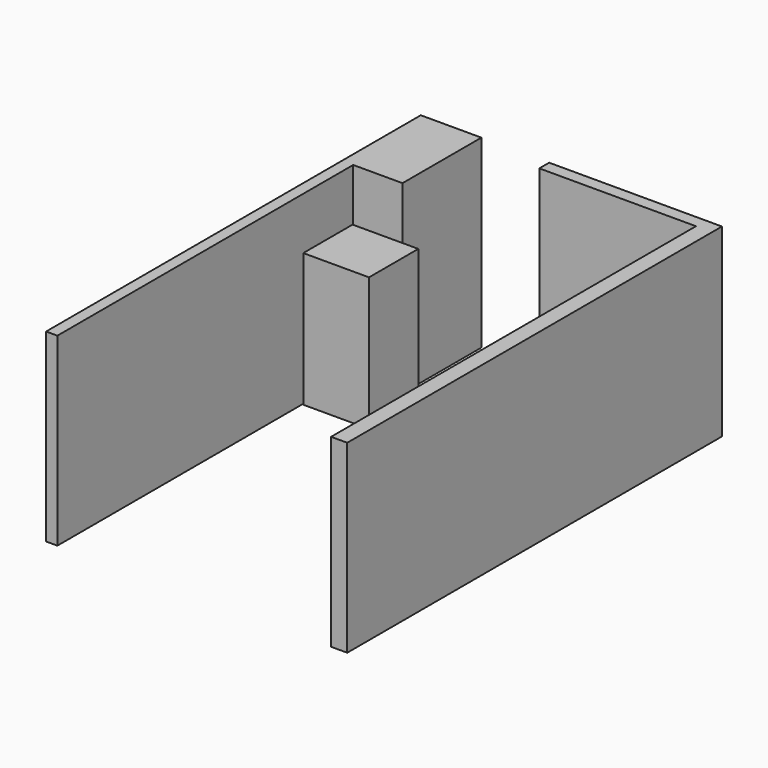
from build123d import *

# Parameters (mm, degrees)
F1_DEPTH  = 2286
F2_W      = 812.8
F2_H      = 762
F3_DEPTH  = 1651
F4_W      = 609.6
F4_H      = 1066.8
F4_W_2    = 558.8
F4_H_2    = 660.4
F5_DEPTH  = 939.8
F6_DEPTH  = 939.8
F7_W      = 304.8
F7_H      = 787.4
F8_DEPTH  = 622.3
F9_W      = 622.3
F9_H      = 863.6
F10_DEPTH = 939.8
F11_W     = 406.4
F11_H     = 345.796715
F11_H_2   = 355.243285
F12_DEPTH = 190.5


with BuildPart() as f1:
    # F0 (on Top) → F1 (new body)
    with BuildSketch(Plane.XY):
        Polygon((2828.738347, 1981.2), (891.988347, 1981.2), (891.988347, 1828.8), (1095.188347, 1828.8), (2828.738347, 1828.8), align=None)
        Polygon((3028.111739, 1981.2), (2828.738347, 1981.2), (2828.738347, 1828.8), (2828.738347, -3810), (3028.111739, -3810), align=None)
        Polygon((-695.511653, 762), (-695.511653, -3810), (-555.811653, -3810), (-555.811653, 0), (-555.811653, 762), align=None)
        Polygon((-695.511653, 1981.2), (-695.511653, 762), (-555.811653, 762), (53.788347, 762), (53.788347, 1981.2), align=None)
    extrude(amount=F1_DEPTH)


with BuildPart() as f3:
    # F2 (on Top) → F3 (new body)
    with BuildSketch(Plane.XY):
        with Locations((-136.711653, 355.6)):
            Rectangle(F2_W, F2_H)
    extrude(amount=F3_DEPTH)


with BuildPart() as f5:
    # F4 (on Top) → F5 (new body)
    with BuildSketch(Plane.XY):
        with Locations((2521.398347, 1295.146)):
            Rectangle(F4_W, F4_H)
        with Locations((1934.658347, 1496.06)):
            Rectangle(F4_W_2, F4_H_2)
    extrude(amount=F5_DEPTH)


with BuildPart() as f6:
    # F4 (on Top) → F6 (new body)
    with BuildSketch(Plane.XY):
        with Locations((2521.398347, 1295.146)):
            Rectangle(F4_W, F4_H)
        with Locations((1934.658347, 1496.06)):
            Rectangle(F4_W_2, F4_H_2)
    extrude(amount=F6_DEPTH)


with BuildPart() as f8_tool:
    # F7 (on face) → F8 (new body)
    with BuildSketch(Plane(origin=(2216.598347, 0, 0), x_dir=(0, -1, 0), z_dir=(-1, 0, 0))):
        with Locations((-963.676, 495.3)):
            Rectangle(F7_W, F7_H)
    extrude(amount=-F8_DEPTH)


with BuildPart() as f1_1:
    add(f1.part)

    # F8: cut by f8_tool
    add(f8_tool.part, mode=Mode.SUBTRACT)


with BuildPart() as f5_1:
    add(f5.part)

    # F8: cut by f8_tool
    add(f8_tool.part, mode=Mode.SUBTRACT)


with BuildPart() as f6_1:
    add(f6.part)

    # F8: cut by f8_tool
    add(f8_tool.part, mode=Mode.SUBTRACT)


with BuildPart() as f10:
    # F9 (on Top) → F10 (new body)
    with BuildSketch(Plane.XY):
        with Locations((2515.048347, 327.406)):
            Rectangle(F9_W, F9_H)
    extrude(amount=F10_DEPTH)

    # F11 (on face) → F12 (cut)
    with BuildSketch(Plane.XY.offset(939.8)):
        with Locations((2508.698347, 132.004357)):
            Rectangle(F11_W, F11_H)
        with Locations((2508.698347, 520.624357)):
            Rectangle(F11_W, F11_H_2)
    extrude(amount=-F12_DEPTH, mode=Mode.SUBTRACT)


solid = Compound([f3.part, f1_1.part, f5_1.part, f6_1.part, f10.part])
